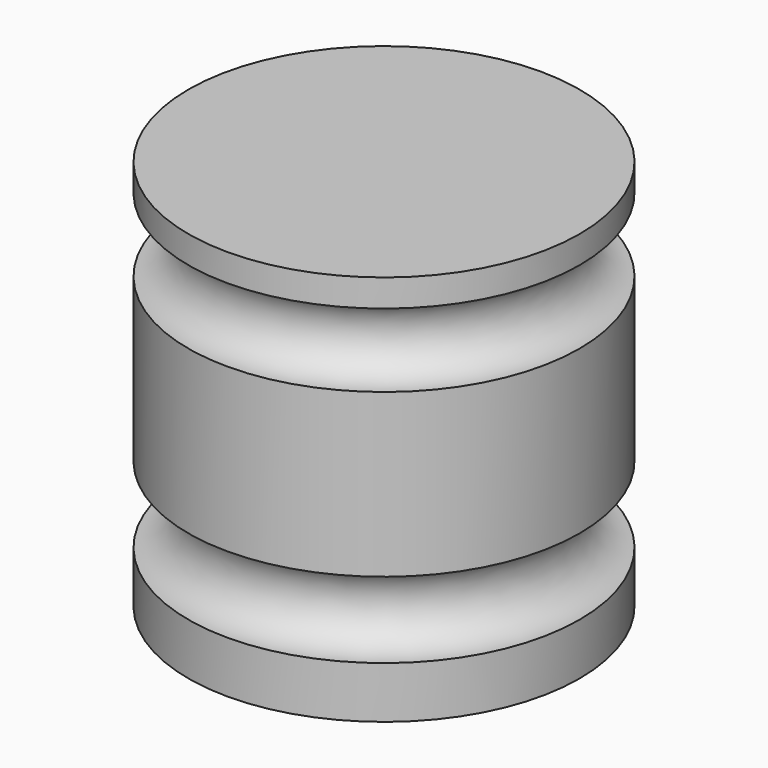
from build123d import *


with BuildPart() as f1:
    # F0 (on Front) → F1 (revolve)
    with BuildSketch(Plane.XZ):
        with BuildLine():
            Line((-25.4, 0), (0, 0))
            Line((0, 0), (0, 6.723808))
            ThreePointArc((0, 6.723808), (-4.931969, 11.655778), (0, 16.587747))
            Line((0, 16.587747), (0, 37.707459))
            ThreePointArc((0, 37.707459), (-4.766986, 42.474445), (0, 47.241431))
            Line((0, 47.241431), (0, 50.8))
            Line((0, 50.8), (-25.4, 50.8))
            Line((-25.4, 50.8), (-25.4, 0))
        make_face()
    revolve(axis=Axis((-25.4, 0, 25.4), (0, 0, 1)))


solid = f1.part
